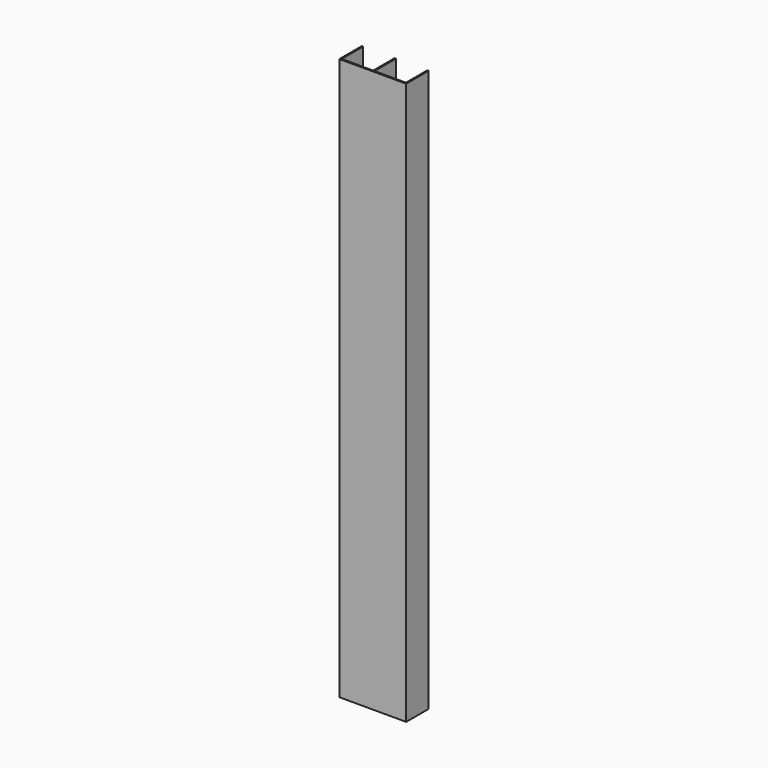
from build123d import *

# Parameters (mm, degrees)
PAD_DEPTH = 500


with BuildPart() as part:
    # Sketch → Pad (new body)
    with BuildSketch(Plane.XY):
        Polygon((-29.75, 25), (-29.75, 0), (29.75, 0), (29.75, 25), (28.583333, 25), (28.583333, 1.166667), (0.583333, 1.166667), (0.583333, 25), (-0.583333, 25), (-0.583333, 1.166667), (-28.583333, 1.166667), (-28.583333, 25), align=None)
    extrude(amount=PAD_DEPTH)


solid = part.part
